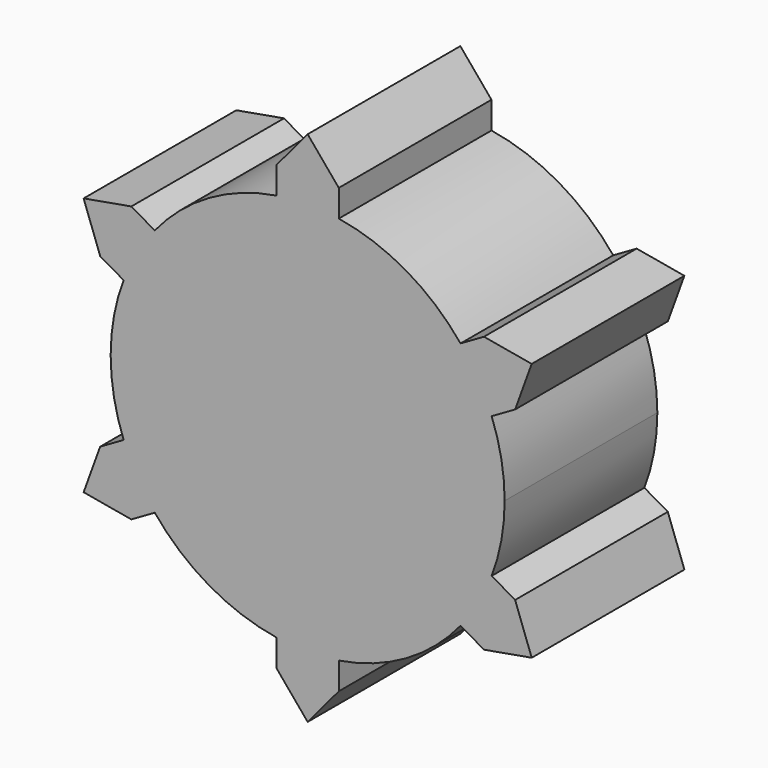
from build123d import *

# Parameters (mm, degrees)
F1_START = 1.475
F1_DEPTH = 3.525


with BuildPart() as f1:
    # F0 (on Front) → F1 (new body)
    with BuildSketch(Plane.XZ.offset(F1_START)):
        with BuildLine():
            ThreePointArc((3.3987444888, -1.2983132359), (3.5778950136, -0.6601125888), (3.63828, 0))
            ThreePointArc((3.63828, 0), (3.5778950136, 0.6601125888), (3.3987444888, 1.2983132359))
            ThreePointArc((3.3987444888, 1.2983132359), (3.1508429061, 1.81914), (2.8237444888, 2.2942424503))
            ThreePointArc((2.8237444888, 2.2942424503), (1.81914, 3.1508429061), (0.575, 3.5925556862))
            ThreePointArc((0.575, 3.5925556862), (0, 3.63828), (-0.575, 3.5925556862))
            ThreePointArc((-0.575, 3.5925556862), (-1.81914, 3.1508429061), (-2.8237444888, 2.2942424503))
            ThreePointArc((-2.8237444888, 2.2942424503), (-3.1508429061, 1.81914), (-3.3987444888, 1.2983132359))
            ThreePointArc((-3.3987444888, 1.2983132359), (-3.63828, 0), (-3.3987444888, -1.2983132359))
            ThreePointArc((-3.3987444888, -1.2983132359), (-3.1508429061, -1.81914), (-2.8237444888, -2.2942424503))
            ThreePointArc((-2.8237444888, -2.2942424503), (-1.81914, -3.1508429061), (-0.575, -3.5925556862))
            ThreePointArc((-0.575, -3.5925556862), (0, -3.63828), (0.575, -3.5925556862))
            ThreePointArc((0.575, -3.5925556862), (1.81914, -3.1508429061), (2.8237444888, -2.2942424503))
            ThreePointArc((2.8237444888, -2.2942424503), (3.1508429061, -1.81914), (3.3987444888, -1.2983132359))
        make_face()
        with BuildLine():
            Line((-3.2567571906, -2.5442424503), (-2.8237444888, -2.2942424503))
            ThreePointArc((-2.8237444888, -2.2942424503), (-3.1508429061, -1.81914), (-3.3987444888, -1.2983132359))
            Line((-3.3987444888, -1.2983132359), (-3.8317571906, -1.5483132359))
            Line((-3.8317571906, -1.5483132359), (-3.2567571906, -2.5442424503))
        make_face()
        Polygon((-4.1377083002, -2.388907001), (-3.2567571906, -2.5442424503), (-3.8317571906, -1.5483132359), align=None)
        Polygon((0, -4.7778140019), (0.575, -4.0925556862), (-0.575, -4.0925556862), align=None)
        with BuildLine():
            Line((0.575, -4.0925556862), (0.575, -3.5925556862))
            ThreePointArc((0.575, -3.5925556862), (0, -3.63828), (-0.575, -3.5925556862))
            Line((-0.575, -3.5925556862), (-0.575, -4.0925556862))
            Line((-0.575, -4.0925556862), (0.575, -4.0925556862))
        make_face()
        Polygon((4.1377083002, -2.388907001), (3.8317571906, -1.5483132359), (3.2567571906, -2.5442424503), align=None)
        with BuildLine():
            Line((3.8317571906, -1.5483132359), (3.3987444888, -1.2983132359))
            ThreePointArc((3.3987444888, -1.2983132359), (3.1508429061, -1.81914), (2.8237444888, -2.2942424503))
            Line((2.8237444888, -2.2942424503), (3.2567571906, -2.5442424503))
            Line((3.2567571906, -2.5442424503), (3.8317571906, -1.5483132359))
        make_face()
        Polygon((-3.8317571906, 1.5483132359), (-3.2567571906, 2.5442424503), (-4.1377083002, 2.388907001), align=None)
        Polygon((3.2567571906, 2.5442424503), (3.8317571906, 1.5483132359), (4.1377083002, 2.388907001), align=None)
        with BuildLine():
            ThreePointArc((2.8237444888, 2.2942424503), (3.1508429061, 1.81914), (3.3987444888, 1.2983132359))
            Line((3.3987444888, 1.2983132359), (3.8317571906, 1.5483132359))
            Line((3.8317571906, 1.5483132359), (3.2567571906, 2.5442424503))
            Line((3.2567571906, 2.5442424503), (2.8237444888, 2.2942424503))
        make_face()
        with BuildLine():
            ThreePointArc((-0.575, 3.5925556862), (0, 3.63828), (0.575, 3.5925556862))
            Line((0.575, 3.5925556862), (0.575, 4.0925556862))
            Line((0.575, 4.0925556862), (-0.575, 4.0925556862))
            Line((-0.575, 4.0925556862), (-0.575, 3.5925556862))
        make_face()
        with BuildLine():
            ThreePointArc((-3.3987444888, 1.2983132359), (-3.1508429061, 1.81914), (-2.8237444888, 2.2942424503))
            Line((-2.8237444888, 2.2942424503), (-3.2567571906, 2.5442424503))
            Line((-3.2567571906, 2.5442424503), (-3.8317571906, 1.5483132359))
            Line((-3.8317571906, 1.5483132359), (-3.3987444888, 1.2983132359))
        make_face()
        Polygon((-0.575, 4.0925556862), (0.575, 4.0925556862), (0, 4.7778140019), align=None)
    extrude(amount=F1_DEPTH)


solid = f1.part
